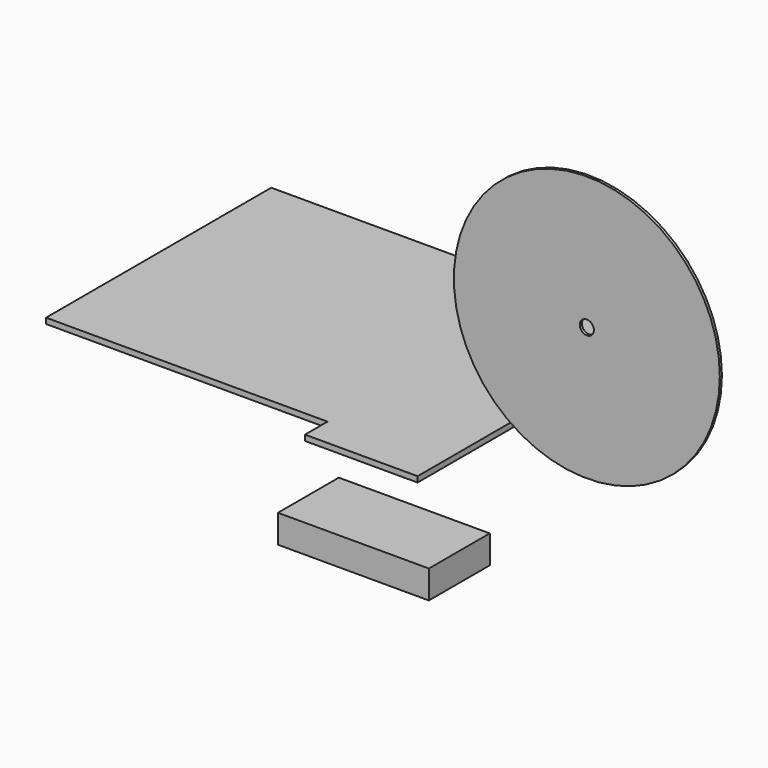
from build123d import *

# Parameters (mm, degrees)
F0_W     = 127
F0_H     = 127
F1_DEPTH = 2.54
F2_R     = 60
F2_R_2   = 3.175
F3_DEPTH = 1.1938
F4_W     = 68.108961
F4_H     = 34.34065
F5_DEPTH = 12.7


with BuildPart() as f1:
    # F0 (on Top) → F1 (new body)
    with BuildSketch(Plane.XY):
        with Locations((-63.5, 47.549406)):
            Rectangle(F0_W, F0_H)
        Polygon((0, 123.749406), (0, 111.049406), (0, -15.950594), (0, -28.650594), (50.8, -28.650594), (50.8, 123.749406), align=None)
    extrude(amount=F1_DEPTH)


with BuildPart() as f3:
    # F2 (on Front) → F3 (new body)
    with BuildSketch(Plane.XZ):
        with Locations((105.212152, 68.162248)):
            Circle(F2_R)
        with Locations((105.212152, 68.162248)):
            Circle(F2_R_2, mode=Mode.SUBTRACT)
    extrude(amount=F3_DEPTH)


with BuildPart() as f5:
    # F4 (on Top) → F5 (new body)
    with BuildSketch(Plane.XY):
        with Locations((76.054343, -79.247311)):
            Rectangle(F4_W, F4_H)
    extrude(amount=F5_DEPTH)


solid = Compound([f1.part, f3.part, f5.part])
